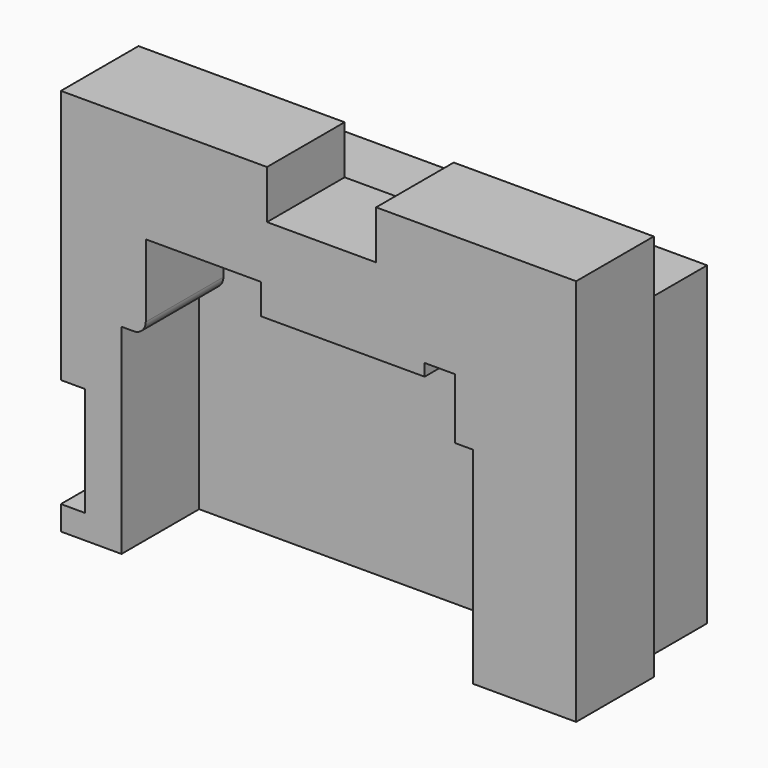
from build123d import *

# Parameters (mm, degrees)
F1_DEPTH = 50.8
F2_W     = 244.475
F2_H     = 165.1
F3_DEPTH = 50.8


with BuildPart() as f1:
    # F0 (on Front) → F1 (new body)
    with BuildSketch(Plane.XZ):
        with BuildLine():
            Line((0, 12.7), (0, 0))
            Line((0, 0), (31.75, 0))
            Line((31.75, 0), (31.75, 104.775))
            Line((31.75, 104.775), (38.1, 104.775))
            ThreePointArc((38.1, 104.775), (42.590128, 106.634872), (44.45, 111.125))
            Line((44.45, 111.125), (44.45, 149.225))
            Line((44.45, 149.225), (104.775, 149.225))
            Line((104.775, 149.225), (104.775, 133.35))
            Line((104.775, 133.35), (190.5, 133.35))
            Line((190.5, 133.35), (190.5, 139.7))
            Line((190.5, 139.7), (206.375, 139.7))
            Line((206.375, 139.7), (206.375, 107.95))
            Line((206.375, 107.95), (215.9, 107.95))
            Line((215.9, 107.95), (215.9, 0))
            Line((215.9, 0), (269.875, 0))
            Line((269.875, 0), (269.875, 203.2))
            Line((269.875, 203.2), (165.1, 203.2))
            Line((165.1, 203.2), (165.1, 177.8))
            Line((165.1, 177.8), (107.95, 177.8))
            Line((107.95, 177.8), (107.95, 203.2))
            Line((107.95, 203.2), (0, 203.2))
            Line((0, 203.2), (0, 69.85))
            Line((0, 69.85), (12.7, 69.85))
            Line((12.7, 69.85), (12.7, 12.7))
            Line((12.7, 12.7), (0, 12.7))
        make_face()
    extrude(amount=F1_DEPTH)


with BuildPart() as f3:
    # F2 (on face) → F3 (new body)
    with BuildSketch(Plane(origin=(0, 0, 0), x_dir=(-1, 0, 0), z_dir=(0, 1, 0))):
        with Locations((-134.9375, 82.55)):
            Rectangle(F2_W, F2_H)
    extrude(amount=F3_DEPTH)


solid = Compound([f1.part, f3.part])
